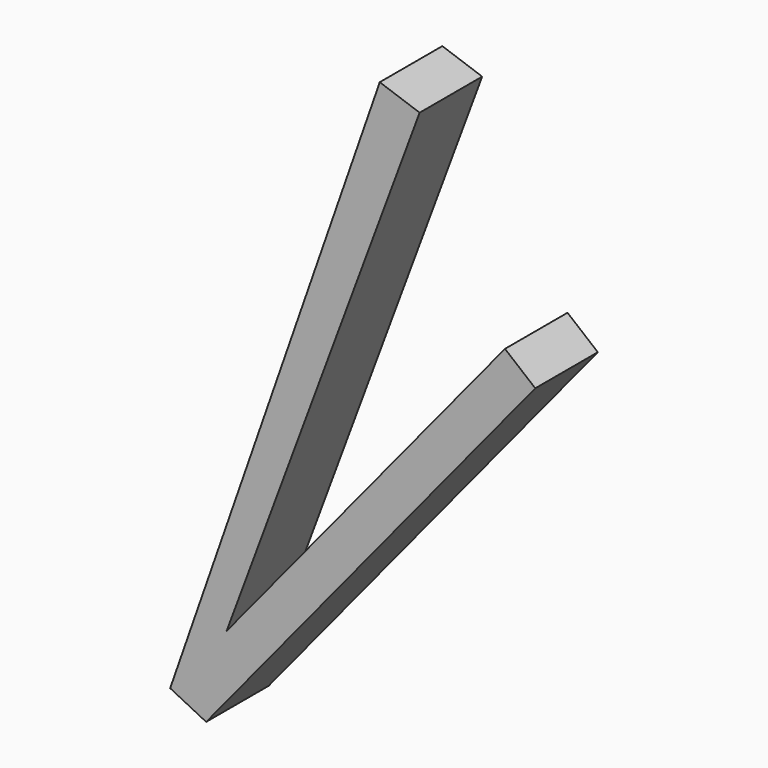
from build123d import *

# Parameters (mm, degrees)
F1_DEPTH = 5.08


with BuildPart() as f1:
    # F0 (on Front) → F1 (new body)
    with BuildSketch(Plane.XZ):
        Polygon((11.281598, 40.26455), (-2.337756, 1.167025), (1.329278, 5.632179), (13.871406, 39.362408), align=None)
        Polygon((-2.337756, 1.167025), (0, 0), (21.386322, 26.040992), (19.417819, 27.657637), (1.329278, 5.632179), align=None)
    extrude(amount=F1_DEPTH)


solid = f1.part
